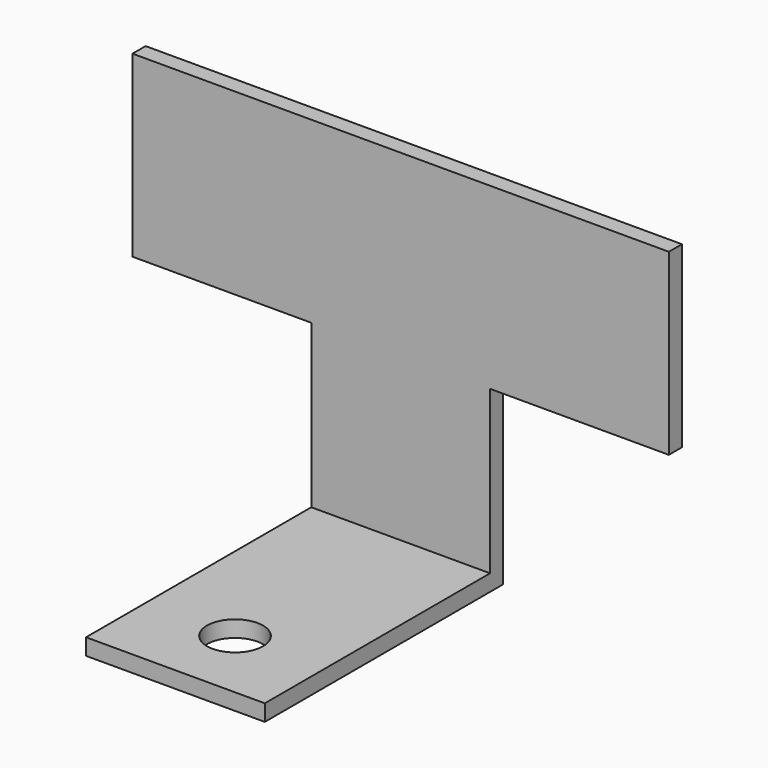
from build123d import *

# Parameters (mm, degrees)
F0_W     = 45.72
F0_H     = 30.48
F1_DEPTH = 0.6985
F2_W     = 15.24
F2_H     = 15.24
F3_DEPTH = 1.398
F4_W     = 15.24
F4_H     = 1.397
F5_DEPTH = 24.003
F6_R     = 2.3876
F7_DEPTH = 1.398


with BuildPart() as f1:
    # F0 (on Front) → F1 (new body, symmetric)
    with BuildSketch(Plane.XZ):
        Rectangle(F0_W, F0_H)
    extrude(amount=F1_DEPTH, both=True)

    # F2 (on face) → F3 (cut, through all)
    with BuildSketch(Plane.XZ.offset(0.6985)):
        with Locations((-15.24, -7.62)):
            Rectangle(F2_W, F2_H)
        with Locations((15.24, -7.62)):
            Rectangle(F2_W, F2_H)
    extrude(amount=-F3_DEPTH, mode=Mode.SUBTRACT)

    # F4 (on face) → F5 (join)
    with BuildSketch(Plane.XZ.offset(0.6985)):
        with Locations((0, -14.5415)):
            Rectangle(F4_W, F4_H)
    extrude(amount=F5_DEPTH)

    # F6 (on face) → F7 (cut, through all)
    with BuildSketch(Plane.XY.offset(-13.843)):
        with Locations((0, -18.3515)):
            Circle(F6_R)
    extrude(amount=-F7_DEPTH, mode=Mode.SUBTRACT)


solid = f1.part
